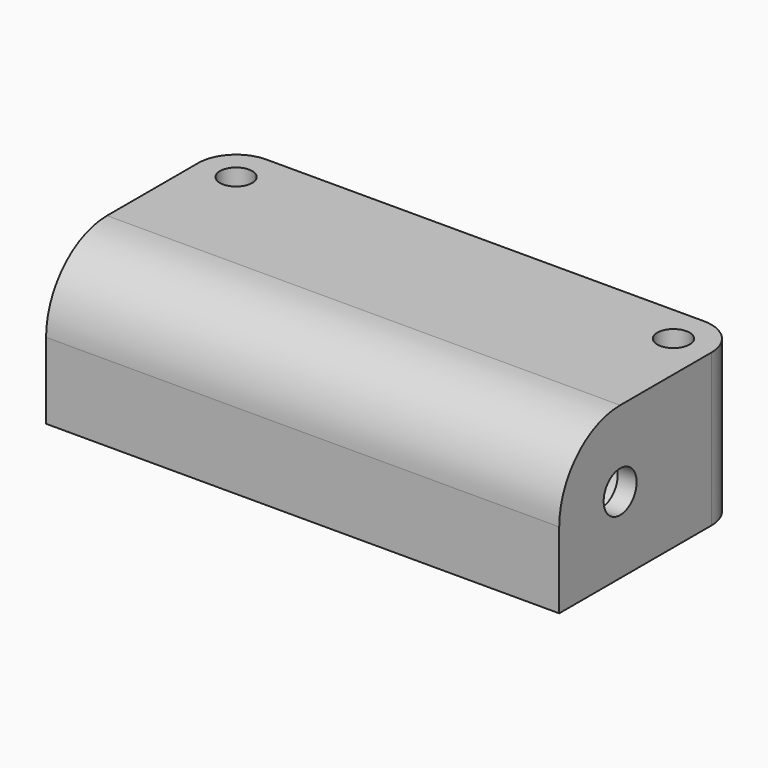
from build123d import *

# Parameters (mm, degrees)
F0_W     = 43.0059846
F0_H     = 19.1125094
F0_R     = 1.35255
F1_DEPTH = 12.7625094
F2_R     = 3.175
F3_R     = 6.3812547
F4_R     = 1.7272
F5_DEPTH = 43.0059846
F6_R     = 4
F6_R_2   = 1.7272
F8_DEPTH = 41.4184846


with BuildPart() as f1:
    # F0 (on Top) → F1 (new body)
    with BuildSketch(Plane.XY):
        with Locations((21.5029923, 9.5562547)):
            Rectangle(F0_W, F0_H)
        with Locations((3.175, 15.9375094)):
            Circle(F0_R, mode=Mode.SUBTRACT)
        with Locations((39.8309846, 15.9375094)):
            Circle(F0_R, mode=Mode.SUBTRACT)
    extrude(amount=F1_DEPTH)

    # F2
    f2_edges = [f1.edges().sort_by_distance(p)[0] for p in [
        (43.005985, 19.112509, 6.381255),
        (0, 19.112509, 6.381255),
    ]]
    fillet(f2_edges, radius=F2_R)

    # F3
    f3_edges = [f1.edges().sort_by_distance(p)[0] for p in [
        (21.502992, 0, 12.762509),
    ]]
    fillet(f3_edges, radius=F3_R)

    # F4 (on face) → F5 (cut, through all)
    with BuildSketch(Plane.YZ.offset(43.0059846)):
        with Locations((6.3812547, 6.3812547)):
            Circle(F4_R)
    extrude(amount=-F5_DEPTH, mode=Mode.SUBTRACT)

    # F6 (on face) → F8 (cut, through all)
    with BuildSketch(Plane(origin=(0, 0, 0), x_dir=(0, -1, 0), z_dir=(-1, 0, 0))):
        with Locations((-6.3812547, 6.3812547)):
            Circle(F6_R)
        with Locations((-6.3812547, 6.3812547)):
            Circle(F6_R_2, mode=Mode.SUBTRACT)
    extrude(amount=-F8_DEPTH, mode=Mode.SUBTRACT)


solid = f1.part
